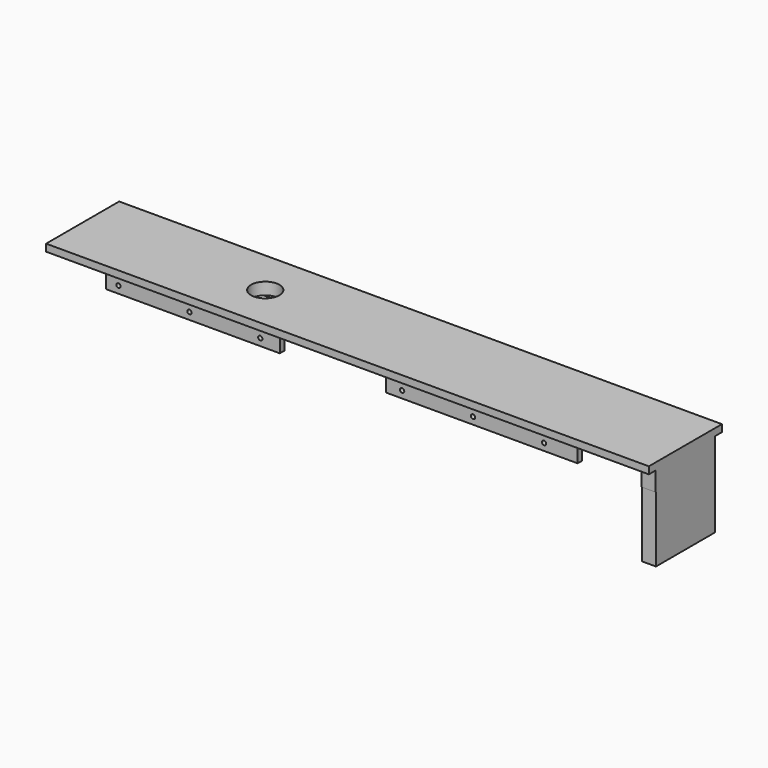
from build123d import *

# Parameters (mm, degrees)
CYLINDER002_R     = 0.6
CYLINDER002_DEPTH = 100
ARRAY003_X_COUNT  = 8
ARRAY003_X_PITCH  = 20
BOX009_W          = 15
BOX009_H          = 25.76
BOX009_DEPTH      = 10
BOX010_W          = 30
BOX010_H          = 25.76
BOX010_DEPTH      = 10
BOX011_W          = 18
BOX011_H          = 25.76
BOX011_DEPTH      = 10
CYLINDER004_R     = 4
CYLINDER004_DEPTH = 10
BOX012_W          = 2
BOX012_H          = 8.76
BOX012_DEPTH      = 21.3
BOX005_W          = 166
BOX005_H          = 17.76
BOX005_DEPTH      = 6
BOX006_W          = 170
BOX006_H          = 25.76
BOX006_DEPTH      = 2
BOX008_W          = 2
BOX008_H          = 20.76
BOX008_DEPTH      = 25.8
BOX007_W          = 2
BOX007_H          = 20.76
BOX007_DEPTH      = 22.2
BOX004_W          = 170
BOX004_H          = 20.96
BOX004_DEPTH      = 6


with BuildPart() as array003:
    # Cylinder002 → Cylinder002 (new body)
    with BuildSketch(Plane(origin=(18.5, -32.5, 23), x_dir=(1, 0, 0), z_dir=(0, 1, 0))):
        Circle(CYLINDER002_R)
    extrude(amount=CYLINDER002_DEPTH)

    # Array003 X: Array003 ×8


with BuildPart() as array003_1:
    add(array003.part)
    with Locations(*[(i * ARRAY003_X_PITCH, 0, 0) for i in range(1, ARRAY003_X_COUNT)]):
        add(array003.part)


with BuildPart() as cube009:
    # Box009 → Box009 (new body)
    with BuildSketch(Plane.XY.offset(16)):
        with Locations((7.5, 12.88)):
            Rectangle(BOX009_W, BOX009_H)
    extrude(amount=BOX009_DEPTH)


with BuildPart() as cube010:
    # Box010 → Box010 (new body)
    with BuildSketch(Plane(origin=(64, 0, 16), x_dir=(1, 0, 0), z_dir=(0, 0, 1))):
        with Locations((15, 12.88)):
            Rectangle(BOX010_W, BOX010_H)
    extrude(amount=BOX010_DEPTH)


with BuildPart() as cube011:
    # Box011 → Box011 (new body)
    with BuildSketch(Plane(origin=(148, 0, 16), x_dir=(1, 0, 0), z_dir=(0, 0, 1))):
        with Locations((9, 12.88)):
            Rectangle(BOX011_W, BOX011_H)
    extrude(amount=BOX011_DEPTH)


with BuildPart() as cylinder004:
    # Cylinder004 → Cylinder004 (new body)
    with BuildSketch(Plane(origin=(51.5, 12.88, 20), x_dir=(1, 0, 0), z_dir=(0, 0, 1))):
        Circle(CYLINDER004_R)
    extrude(amount=CYLINDER004_DEPTH)


with BuildPart() as cube012:
    # Box012 → Box012 (new body)
    with BuildSketch(Plane(origin=(166, 8.5, 0), x_dir=(1, 0, 0), z_dir=(0, 0, 1))):
        with Locations((1, 4.38)):
            Rectangle(BOX012_W, BOX012_H)
    extrude(amount=BOX012_DEPTH)


with BuildPart() as cut_out_fusion:
    # Box005 → Box005 (new body)
    with BuildSketch(Plane(origin=(0, 4, 19), x_dir=(1, 0, 0), z_dir=(0, 0, 1))):
        with Locations((83, 8.88)):
            Rectangle(BOX005_W, BOX005_H)
    extrude(amount=BOX005_DEPTH)

    # Fusion002: union Array003, Cube009, Cube010, Cube011, Cylinder004, Cube012
    add(array003_1.part)
    add(cube009.part)
    add(cube010.part)
    add(cube011.part)
    add(cylinder004.part)
    add(cube012.part)


with BuildPart() as cube006:
    # Box006 → Box006 (new body)
    with BuildSketch(Plane.XY.offset(26.4)):
        with Locations((85, 12.88)):
            Rectangle(BOX006_W, BOX006_H)
    extrude(amount=BOX006_DEPTH)


with BuildPart() as cube008:
    # Box008 → Box008 (new body)
    with BuildSketch(Plane(origin=(168, 2.5, 2.5), x_dir=(1, 0, 0), z_dir=(0, 0, 1))):
        with Locations((1, 10.38)):
            Rectangle(BOX008_W, BOX008_H)
    extrude(amount=BOX008_DEPTH)


with BuildPart() as cube007:
    # Box007 → Box007 (new body)
    with BuildSketch(Plane(origin=(166, 2.5, 2.5), x_dir=(1, 0, 0), z_dir=(0, 0, 1))):
        with Locations((1, 10.38)):
            Rectangle(BOX007_W, BOX007_H)
    extrude(amount=BOX007_DEPTH)


with BuildPart() as lid_cut:
    # Box004 → Box004 (new body)
    with BuildSketch(Plane(origin=(0, 2.4, 21), x_dir=(1, 0, 0), z_dir=(0, 0, 1))):
        with Locations((85, 10.48)):
            Rectangle(BOX004_W, BOX004_H)
    extrude(amount=BOX004_DEPTH)

    # Fusion001: union Cube006, Cube008, Cube007
    add(cube006.part)
    add(cube008.part)
    add(cube007.part)

    # Cut002: cut cut out fusion
    add(cut_out_fusion.part, mode=Mode.SUBTRACT)


solid = lid_cut.part
